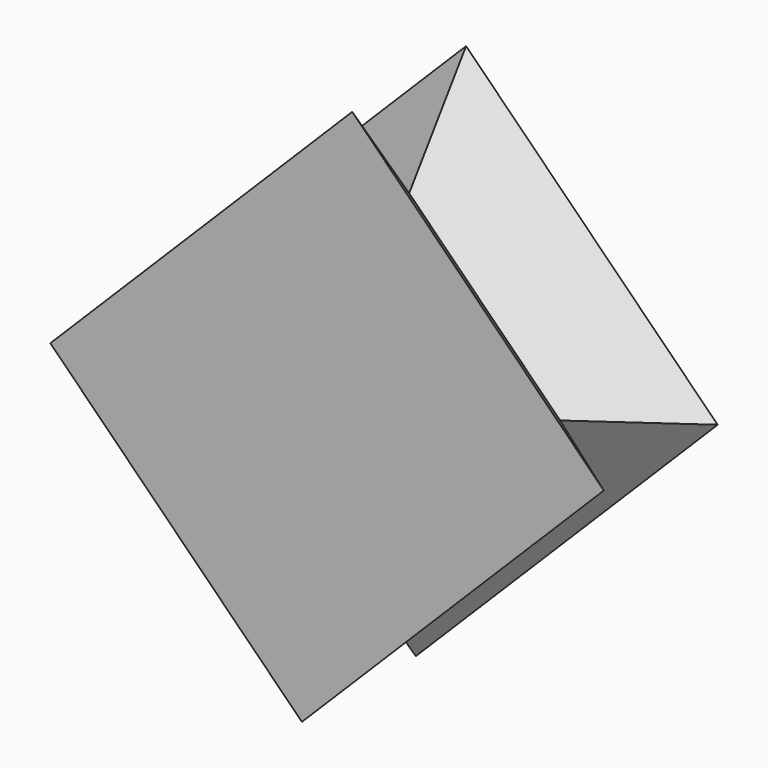
from build123d import *

# Parameters (mm, degrees)
F1_DEPTH = 12.7
F1_TAPER = -45


with BuildPart() as f1:
    # F0 (on Front) → F1 (new body, symmetric)
    with BuildSketch(Plane.XZ):
        Polygon((-26.9407683632, 26.9407683632), (0, 0), (35.9210244843, 35.9210244843), (8.9802561211, 62.8617928475), align=None)
    extrude(amount=F1_DEPTH, both=True, taper=F1_TAPER)


solid = f1.part
